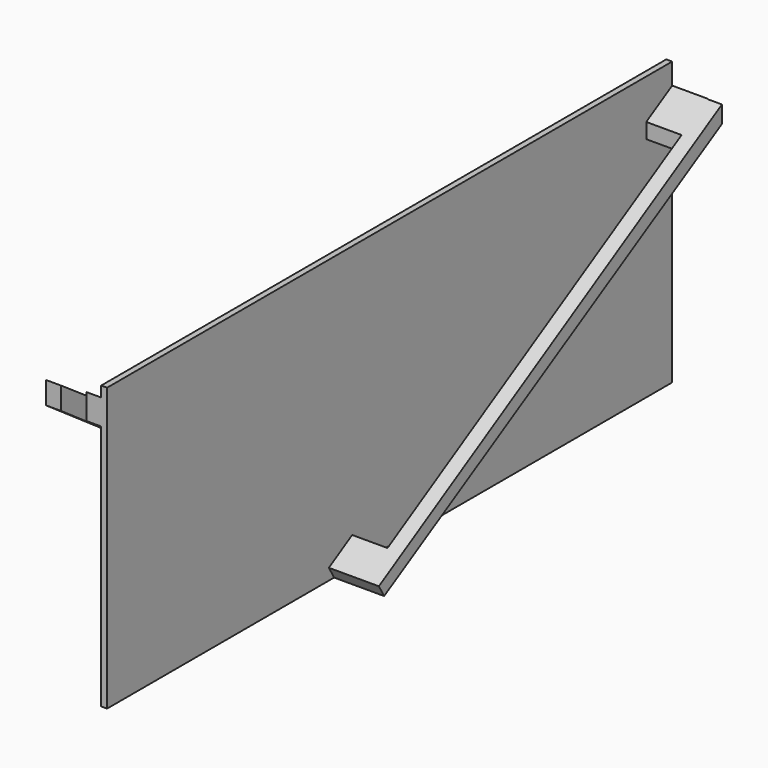
from build123d import *

# Parameters (mm, degrees)
F0_W      = 6096
F0_H      = 2438.4
F1_DEPTH  = 50.8
F3_DEPTH  = 304.8
F5_DEPTH  = 127
F7_DEPTH  = 203.2
F10_DEPTH = 127
F12_DEPTH = 127


with BuildPart() as f1:
    # F0 (on Right) → F1 (new body)
    with BuildSketch(Plane.YZ):
        Rectangle(F0_W, F0_H)
    extrude(amount=F1_DEPTH)

    # F2 (on face) → F3 (join)
    with BuildSketch(Plane.YZ.offset(50.8)):
        Polygon((2768.7226924944, 742.9208226702), (3048, 905.6503176689), (3048, 1036.5047400729), (2768.7226924944, 873.7752450741), align=None)
        Polygon((-655.6012799492, -1121.512219292), (-598.6804962158, -1219.2), (-403.7681643359, -1105.6283474403), (-403.7681643359, -974.7739250363), align=None)
    extrude(amount=F3_DEPTH)

    # F4 (on face) → F5 (join)
    with BuildSketch(Plane(origin=(0, 0, 0), x_dir=(0, -1, 0), z_dir=(-1, 0, 0))):
        Polygon((0, -1219.2), (3048, 908.1615209579), (3048, 1128.1091420174), (0, -999.2523789406), align=None)
    extrude(amount=F5_DEPTH)

    # F6 (on face) → F7 (join)
    with BuildSketch(Plane(origin=(-127, 0, 0), x_dir=(0, -1, 0), z_dir=(-1, 0, 0))):
        Polygon((611.3445986138, -572.562426468), (184.8353640356, -870.2459349899), (184.8353640356, -1090.1935560493), (611.3445986138, -792.5100475274), align=None)
    extrude(amount=F7_DEPTH)

    # F9 (on face) → F10 (join)
    with BuildSketch(Plane(origin=(-330.2, 0, 0), x_dir=(0, -1, 0), z_dir=(-1, 0, 0))):
        Polygon((184.8353640356, -870.2459349899), (184.8353640356, -1080.9821333739), (611.3445986138, -783.9422652285), (611.3445986138, -572.562426468), align=None)
        Polygon((0, -986.7016077042), (0, -1209.7096443176), (184.8353640356, -1080.9821333739), (184.8353640356, -870.2459349899), (611.3445986138, -572.562426468), (611.3445986138, -783.9422652285), (3071.0999965668, 929.1400313377), (3071.0999965668, 1121.7379570007), align=None)
    extrude(amount=F10_DEPTH)

    # F11 (on face) → F12 (join)
    with BuildSketch(Plane.YZ.offset(355.6)):
        Polygon((3045.1943140363, 1034.869921032), (-655.6012799492, -1121.512219292), (-598.6804962158, -1219.2), (3045.1943140363, 886.5033388138), align=None)
    extrude(amount=F12_DEPTH)


solid = f1.part
